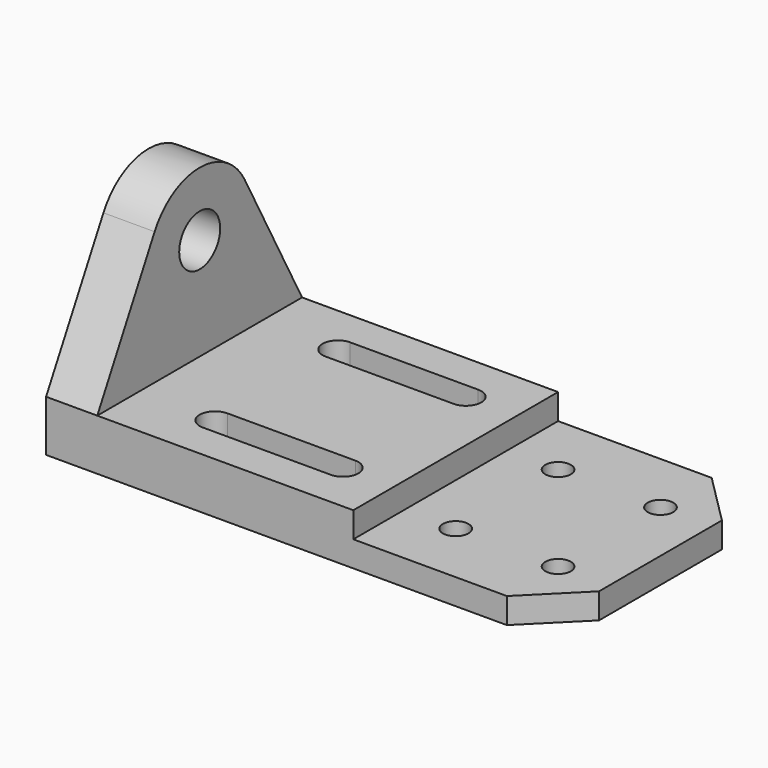
from build123d import *

# Parameters (mm, degrees)
SKETCH_R     = 5
PAD_DEPTH    = 10
SKETCH001_W  = 120
SKETCH001_H  = 100
PAD001_DEPTH = 10
POCKET_DEPTH = 20.001
SKETCH004_R  = 10
PAD002_DEPTH = 20


with BuildPart() as part:
    # Sketch → Pad (new body)
    with BuildSketch(Plane.XY):
        Polygon((-200, 50), (-200, -50), (-20, -50), (0, -30), (0, 30), (-20, 50), align=None)
        with Locations((-20, -25)):
            Circle(SKETCH_R, mode=Mode.SUBTRACT)
        with Locations((-20, 25)):
            Circle(SKETCH_R, mode=Mode.SUBTRACT)
        with Locations((-60, 25)):
            Circle(SKETCH_R, mode=Mode.SUBTRACT)
        with Locations((-60, -25)):
            Circle(SKETCH_R, mode=Mode.SUBTRACT)
    extrude(amount=PAD_DEPTH)

    # Sketch001 (on Face12 of Pad) → Pad001 (join)
    with BuildSketch(Plane.XY.offset(10)):
        with Locations((-140, 0)):
            Rectangle(SKETCH001_W, SKETCH001_H)
    extrude(amount=PAD001_DEPTH)

    # Sketch002 (on Face16 of Pad001) → Pocket (cut, through all)
    with BuildSketch(Plane.XY.offset(20)):
        with BuildLine():
            ThreePointArc((-150, -24), (-156, -30), (-150, -36))
            Line((-150, -36), (-100, -36))
            ThreePointArc((-100, -36), (-94, -30), (-100, -24))
            Line((-150, -24), (-100, -24))
        make_face()
        with BuildLine():
            ThreePointArc((-150, 36), (-156, 30), (-150, 24))
            Line((-150, 24), (-100, 24))
            ThreePointArc((-100, 24), (-94, 30), (-100, 36))
            Line((-150, 36), (-100, 36))
        make_face()
    extrude(amount=-POCKET_DEPTH, mode=Mode.SUBTRACT)

    # Sketch004 (on Face5 of Pocket) → Pad002 (join)
    with BuildSketch(Plane(origin=(-200, 0, 0), x_dir=(0, -1, 0), z_dir=(-1, 0, 0))):
        with BuildLine():
            Line((-50, 20), (-21.999788, 71.874735))
            ThreePointArc((21.999788, 71.874735), (0, 85), (-21.999788, 71.874735))
            Line((21.999788, 71.874735), (50, 20))
            Line((50, 20), (-50, 20))
        make_face()
        with Locations((0, 60)):
            Circle(SKETCH004_R, mode=Mode.SUBTRACT)
    extrude(amount=-PAD002_DEPTH)


solid = part.part
